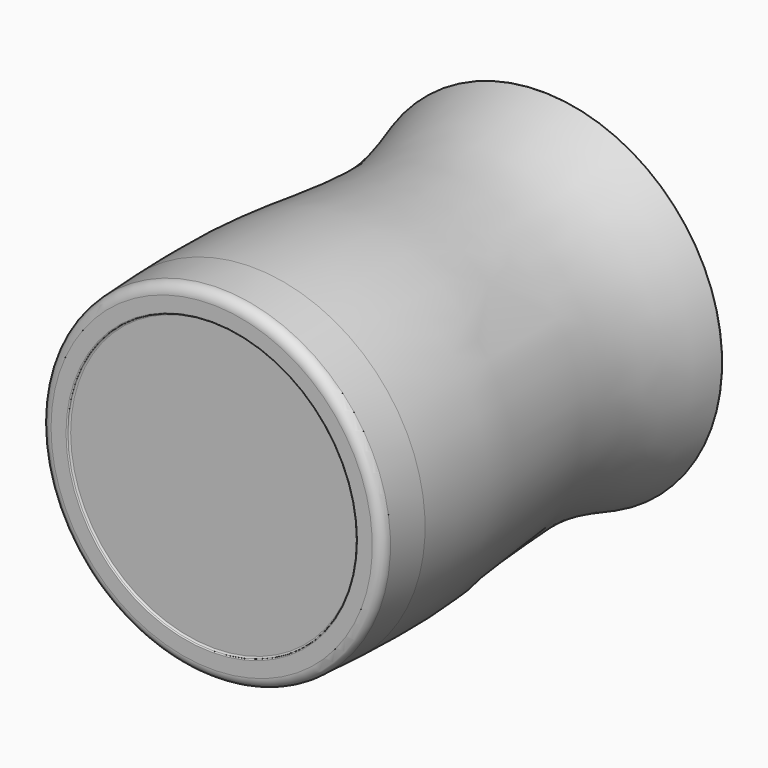
from build123d import *


with BuildPart() as f1:
    # F0 (on Top) → F1 (revolve)
    with BuildSketch(Plane.XY):
        with BuildLine():
            Line((1.2249243569, -10.9834193996), (28.9249243569, -10.9834193996))
            Line((28.9249243569, -10.9834193996), (28.9249243569, -8.4834193996))
            Line((28.9249243569, -8.4834193996), (1.683511118, -8.483283196))
            ThreePointArc((1.683511118, -8.483283196), (-0.3528011408, -7.6863200311), (-1.3072086768, -5.7188790138))
            add(Edge.make_bspline(
                [(-5.0222618563, 68.39788196), (-2.3646694765, 62.4247879676), (3.5374962463, 49.0721350813), (-2.3392360738, 19.3187614986), (-1.7812380497, 0.8768307727), (-1.4022889918, -4.5118966104), (-1.3072086768, -5.7188790138)],
                knots=[0.0017323004, 0.0017323004, 0.0017323004, 0.0017323004, 0.2632463475, 0.585410334, 0.8471808679, 0.9319392065, 0.9319392065, 0.9319392065, 0.9319392065], degree=3))
            ThreePointArc((-5.0222618563, 68.39788196), (-5.0960425019, 68.4843010105), (-5.2049914075, 68.5165806004))
            Line((-5.2049914075, 68.5165806004), (-5.8055406922, 68.5165806004))
            ThreePointArc((-5.8055406922, 68.5165806004), (-5.9661516229, 68.4357616767), (-5.9969585281, 68.25862189))
            add(Edge.make_bspline(
                [(-4.5362084172, -1.655986346), (-4.7843727418, 4.9398890803), (-4.9533691179, 21.7093738799), (-0.124227001, 48.6679943746), (-4.1794636673, 62.2560567742), (-5.9969585281, 68.25862189)],
                knots=[0.1178009521, 0.1178009521, 0.1178009521, 0.1178009521, 0.3540750676, 0.7115861039, 0.9959267347, 0.9959267347, 0.9959267347, 0.9959267347], degree=3))
            add(Edge.make_bspline(
                [(-4.1726780612, -9.5854333114), (-4.3073791682, -6.9480329022), (-4.4364200845, -4.3082266012), (-4.5362084172, -1.655986346)],
                knots=[0.0227937423, 0.0227937423, 0.0227937423, 0.0227937423, 0.1178009521, 0.1178009521, 0.1178009521, 0.1178009521], degree=3))
            ThreePointArc((-4.1726780612, -9.5854333114), (-3.5529556241, -10.9332517733), (-2.1752814651, -11.4834193996))
            Line((-2.1752814651, -11.4834193996), (-1.5750756431, -11.4834193996))
            Line((-1.5750756431, -11.4834193996), (0.7249243569, -11.4834193996))
            ThreePointArc((0.7249243569, -11.4834193996), (0.8663457131, -11.4248407559), (0.9249243569, -11.2834193996))
            ThreePointArc((0.9249243569, -11.2834193996), (1.0127923225, -11.0712873653), (1.2249243569, -10.9834193996))
        make_face()
    revolve(axis=Axis((28.9249243569, -11.2334193996, 0), (0, 1, 0)))


solid = f1.part
